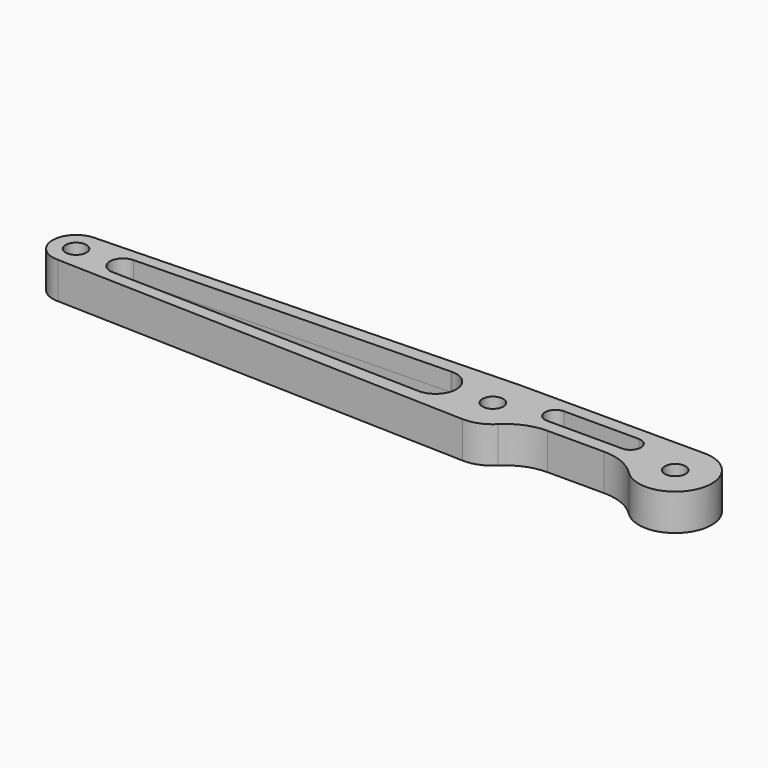
from build123d import *

# Parameters (mm, degrees)
F0_R          = 2
F1_DEPTH      = 3.5
F1_DEPTH_BACK = 3.5
F2_R          = 10


with BuildPart() as f1:
    # F0 (on Top) → F1 (new body, two sides)
    with BuildSketch(Plane.XY) as f1_sk:
        with BuildLine():
            Line((19.090267, 16.766313), (-60.69079, 14.269738))
            ThreePointArc((-60.69079, 14.269738), (-65.190316, 9.704392), (-60.560113, 5.271636))
            Line((-60.560113, 5.271636), (19.089742, 2.773179))
            ThreePointArc((19.089742, 2.773179), (23.40401, 4.092361), (26.01742, 7.769758))
            Line((26.01742, 7.769758), (47.601004, 7.769743))
            ThreePointArc((47.601004, 7.769743), (59.921898, 5.586708), (54.308529, 16.769738))
            Line((54.308529, 16.769738), (19.526791, 16.766355))
            Line((19.526791, 16.766355), (19.090267, 16.766313))
        make_face()
        with Locations((-60.69079, 9.769738)):
            Circle(F0_R, mode=Mode.SUBTRACT)
        with BuildLine():
            ThreePointArc((-51.69079, 7.269738), (-54.19079, 9.769738), (-51.69079, 12.269738))
            Line((-51.69079, 12.269738), (8.109335, 13.764741))
            ThreePointArc((8.109335, 13.764741), (8.209241, 13.768488), (8.30921, 13.769738))
            ThreePointArc((8.30921, 13.769738), (12.30921, 9.769738), (8.30921, 5.769738))
            ThreePointArc((8.30921, 5.769738), (8.209241, 5.770987), (8.109335, 5.774735))
            Line((8.109335, 5.774735), (-51.69079, 7.269738))
        make_face(mode=Mode.SUBTRACT)
        with Locations((19.30921, 9.769738)):
            Circle(F0_R, mode=Mode.SUBTRACT)
        with Locations((54.30921, 9.769738)):
            Circle(F0_R, mode=Mode.SUBTRACT)
        with BuildLine():
            ThreePointArc((29.337422, 10.268118), (27.337422, 12.268118), (29.337422, 14.268118))
            Line((29.337422, 14.268118), (43.714279, 14.269516))
            ThreePointArc((43.714279, 14.269516), (45.714279, 12.269516), (43.714279, 10.269516))
            Line((43.714279, 10.269516), (29.337422, 10.268118))
        make_face(mode=Mode.SUBTRACT)
    extrude(amount=F1_DEPTH)
    extrude(f1_sk.sketch, amount=-F1_DEPTH_BACK)

    # F2
    f2_edges = [f1.edges().sort_by_distance(p)[0] for p in [
        (26.01742, 7.769758, 0),
        (47.601004, 7.769743, 0),
    ]]
    fillet(f2_edges, radius=F2_R)


solid = f1.part
